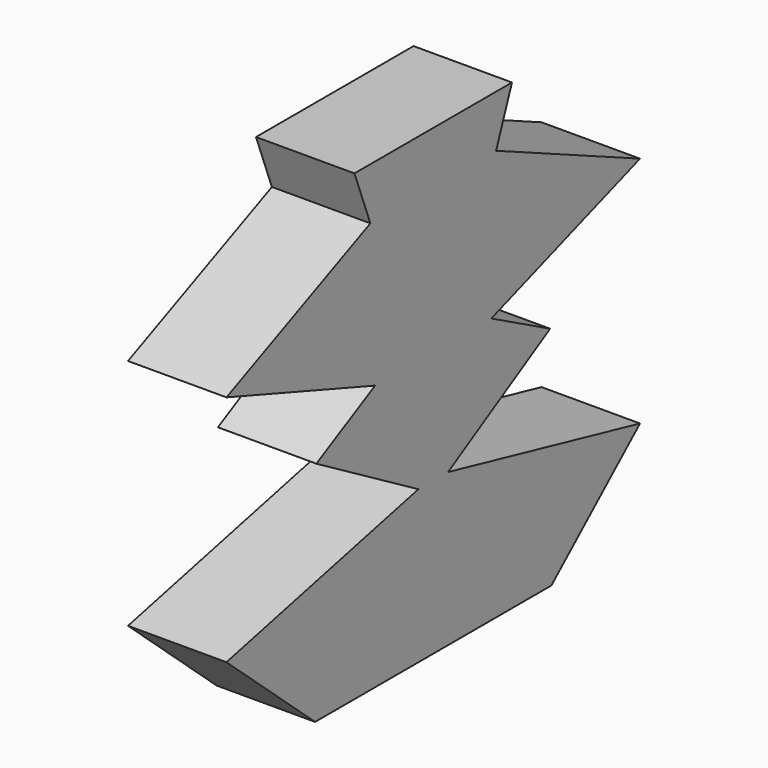
from build123d import *

# Parameters (mm, degrees)
F1_DEPTH = 25.4


with BuildPart() as f1:
    # F0 (on Right) → F1 (new body)
    with BuildSketch(Plane.YZ):
        Polygon((25.4, 64.375869), (0, 64.375869), (-25.4, 64.375869), (-20.276827, 50.945981), (-66.685337, 30.28466), (-18.748498, 13.47099), (-37.697486, 3.443276), (-4.775923, -15.734333), (-66.685337, -29.857874), (-38.1, -55.04693), (-25.4, -55.04693), (0, -55.04693), (25.4, -55.04693), (38.1, -55.04693), (66.685337, -29.857874), (4.775923, -15.734333), (37.697486, 3.443276), (18.748498, 13.47099), (66.685337, 30.28466), (20.276827, 50.945981), align=None)
    extrude(amount=F1_DEPTH)


solid = f1.part
